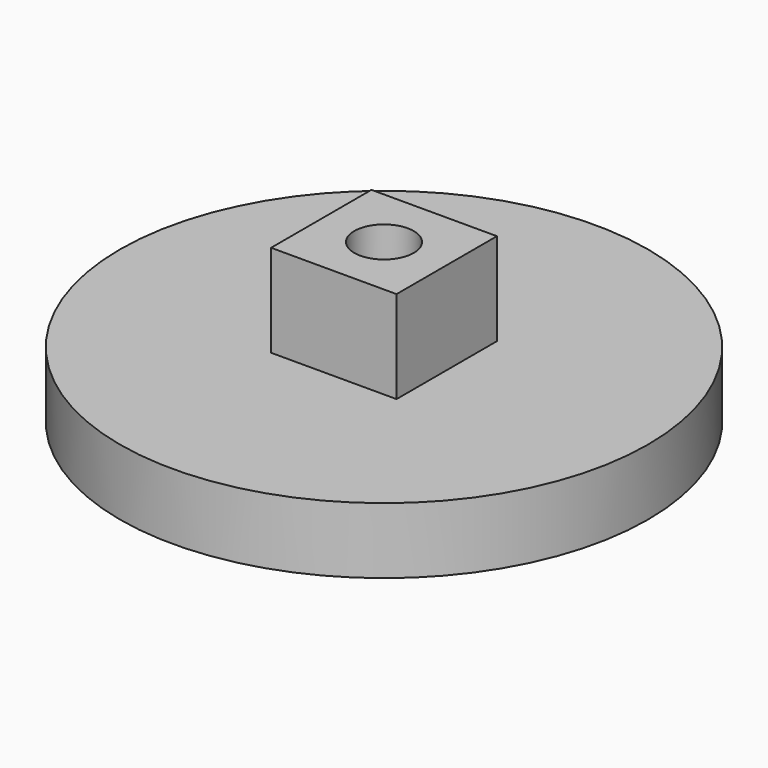
from build123d import *

# Parameters (mm, degrees)
F0_R     = 20
F0_R_2   = 2.25
F1_DEPTH = 5
F2_W     = 9.5
F2_H     = 9.5
F2_R     = 2.25
F3_DEPTH = 7
F4_R     = 4.25
F4_R_2   = 2.25
F5_DEPTH = 3


with BuildPart() as f1:
    # F0 (on Top) → F1 (new body)
    with BuildSketch(Plane.XY):
        Circle(F0_R)
        Circle(F0_R_2, mode=Mode.SUBTRACT)
    extrude(amount=F1_DEPTH)

    # F2 (on face) → F3 (join)
    with BuildSketch(Plane.XY.offset(5)):
        Rectangle(F2_W, F2_H)
        Circle(F2_R, mode=Mode.SUBTRACT)
    extrude(amount=F3_DEPTH)

    # F4 (on face) → F5 (cut)
    with BuildSketch(Plane(origin=(0, 0, 0), x_dir=(1, 0, 0), z_dir=(0, 0, -1))):
        Circle(F4_R)
        Circle(F4_R_2, mode=Mode.SUBTRACT)
    extrude(amount=-F5_DEPTH, mode=Mode.SUBTRACT)


solid = f1.part
